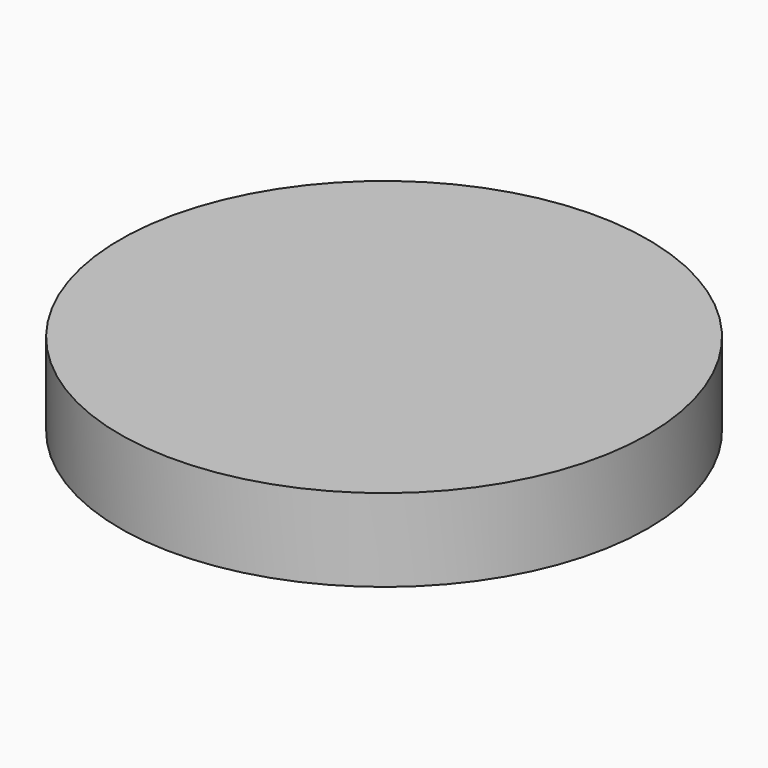
from build123d import *

# Parameters (mm, degrees)
F0_R     = 57.5
F1_DEPTH = 18
F2_R     = 50
F3_DEPTH = 5
F5_DEPTH = 8


with BuildPart() as f1:
    # F0 (on Top) → F1 (new body)
    with BuildSketch(Plane.XY):
        Circle(F0_R)
    extrude(amount=F1_DEPTH)

    # F2 (on face) → F3 (cut)
    with BuildSketch(Plane(origin=(0, 0, 0), x_dir=(1, 0, 0), z_dir=(0, 0, -1))):
        Circle(F2_R)
    extrude(amount=-F3_DEPTH, mode=Mode.SUBTRACT)

    # F4 (on face) → F5 (cut)
    with BuildSketch(Plane(origin=(0, 0, 5), x_dir=(1, 0, 0), z_dir=(0, 0, -1))):
        with BuildLine():
            ThreePointArc((-2.8, 1.65), (-0.855132, -3.135482), (3.25, 0))
            ThreePointArc((3.25, 0), (3.135482, 0.855132), (2.8, 1.65))
            Line((2.8, 1.65), (-2.8, 1.65))
        make_face()
    extrude(amount=-F5_DEPTH, mode=Mode.SUBTRACT)


solid = f1.part
